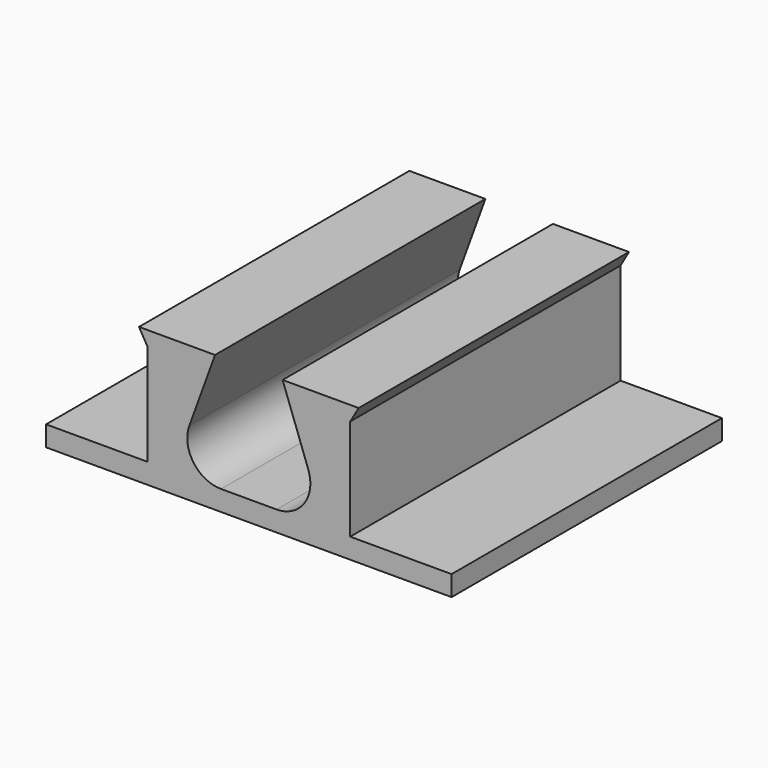
from build123d import *

# Parameters (mm, degrees)
PAD_DEPTH = 10
FILLET_R  = 1


with BuildPart() as part:
    # Sketch → Pad (new body)
    with BuildSketch(Plane.XZ):
        Polygon((-3, 0), (-3, 3), (-3.25, 3.433013), (-1, 3.433013), (-2.249514, 0), (2.249514, 0), (1, 3.433013), (3.25, 3.433013), (3, 3), (3, 0), (6, 0), (6, -0.6), (-6, -0.6), (-6, 0), align=None)
    extrude(amount=PAD_DEPTH)

    # Fillet
    fillet_edges = [part.edges().sort_by_distance(p)[0] for p in [
        (-2.249514, -5, 0),
        (2.249514, -5, 0),
    ]]
    fillet(fillet_edges, radius=FILLET_R)


solid = part.part
